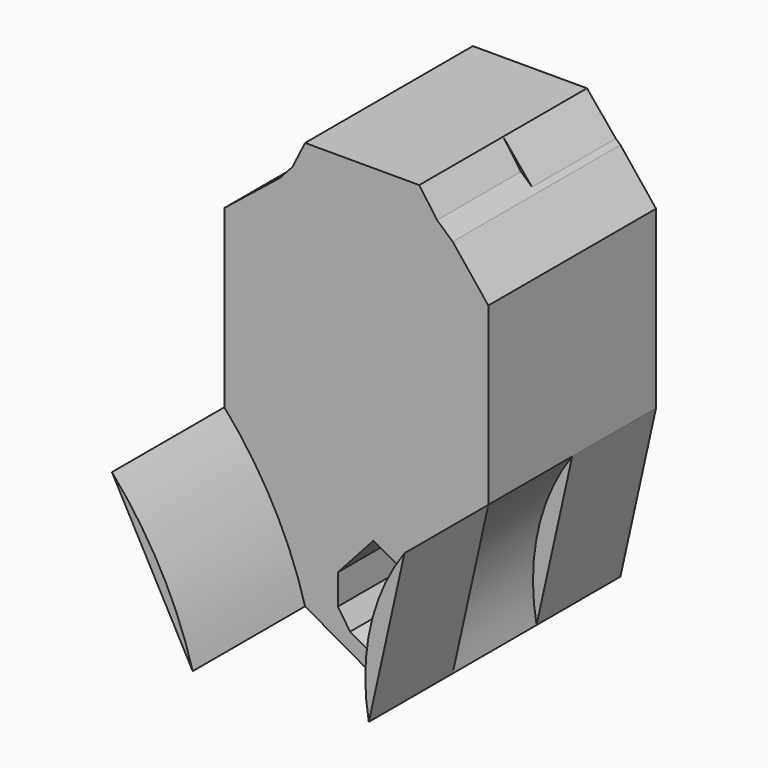
from build123d import *

# Parameters (mm, degrees)
F1_DEPTH  = 25.4
F2_DEPTH  = 25.4
F5_DEPTH  = 51.054
F6_DEPTH  = 25.4
F8_DEPTH  = 25.146
F9_DEPTH  = 8.89
F11_DEPTH = 25.4
F12_DEPTH = 81.788


with BuildPart() as f1:
    # F0 (on Front) → F1 (new body)
    with BuildSketch(Plane.XZ):
        Polygon((-38.0650572479, 57.6888509095), (-51.5612922609, 46.8918569386), (-51.5612922609, 24.2856629193), (-51.5612922609, 4.3787150644), (-31.9917500019, -31.7237153649), (-9.3855569139, -44.5451401174), (3.7732720375, -34.4229638577), (12.4108719826, 4.3787150644), (12.4108719826, 24.2856629193), (12.4108719826, 46.8918569386), (3.7732720375, 57.6888509095), (0, 61.0629059374), (-4.3244678527, 67.1362131834), (-31.9917500019, 67.1362131834), (-35.0284054875, 61.0629059374), align=None)
    extrude(amount=F1_DEPTH)

    # F2 (add): a face of the model
    f2_faces = [f1.faces().sort_by_distance(p)[0] for p in [
        (-18.1670820448, 0, 15.6166909792),
    ]]
    extrude(f2_faces, amount=F2_DEPTH)

    # F4 (on face) → F5 (cut)
    with BuildSketch(Plane.XZ.offset(25.4)):
        with BuildLine():
            ThreePointArc((12.4108719826, 4.3787150644), (4.1185646874, -14.1375862121), (3.7732720375, -34.4229638577))
            Line((3.7732720375, -34.4229638577), (12.4108719826, 4.3787150644))
        make_face()
    extrude(amount=-F5_DEPTH, mode=Mode.SUBTRACT)

    # F4 (on face) + F3 (on face) → F6 (join)
    with BuildSketch(Plane.XZ.offset(25.4)):
        with BuildLine():
            Line((3.7732720375, -34.4229638577), (12.4108719826, 4.3787150644))
            ThreePointArc((12.4108719826, 4.3787150644), (4.1185646874, -14.1375862121), (3.7732720375, -34.4229638577))
        make_face()
    with BuildSketch(Plane(origin=(0, 25.4, 0), x_dir=(-1, 0, 0), z_dir=(0, 1, 0))):
        Polygon((18.1581089273, 67.1362131834), (4.3244678527, 67.1362131834), (-12.4108719826, 46.8918569386), (-12.4108719826, 4.3787150644), (-3.7732720375, -34.4229638577), (9.3855569139, -44.5451401174), (31.9917500019, -31.7237153649), (51.5612922609, 4.3787150644), (51.5612922609, 46.8918569386), (50.0958084087, 48.1103495756), (36.5467313677, 59.3758784235), (31.9917500019, 67.1362131834), align=None)
    extrude(amount=F6_DEPTH, dir=(0, -1, 0))

    # F7 (on face) → F8 (join)
    with BuildSketch(Plane.XZ.offset(25.4)):
        with BuildLine():
            Line((-51.5612922609, 4.3787150644), (-31.9917500019, -31.7237153649))
            ThreePointArc((-31.9917500019, -31.7237153649), (-39.7394624087, -12.568300065), (-51.5612922609, 4.3787150644))
        make_face()
    extrude(amount=F8_DEPTH)

    # F9 (add): a face of the model
    f9_faces = [f1.faces().sort_by_distance(p)[0] for p in [
        (-40.9608129672, -50.546, -13.2303405726),
    ]]
    extrude(f9_faces, amount=F9_DEPTH)

    # F10 (on face) → F11 (join)
    with BuildSketch(Plane.XZ.offset(25.4)):
        Polygon((-15.4559531359, -12.3257856039), (-24.0448707213, -21.8765659441), (-24.0448707213, -29.190047577), (-21.0833395748, -33.5754018863), (-17.0532407374, -35.8441268439), (-10.7082539019, -37.7830361114), (-8.6549719673, -38.4104806555), (-6.0115899485, -33.5754018863), (-3.3401730916, -23.3702346121), (-8.6549719673, -16.1149992003), align=None)
        with BuildLine():
            ThreePointArc((-7.757912569, -35.5995865712), (-8.682855395, -37.4347954064), (-10.7082539019, -37.7830361114))
            ThreePointArc((-10.7082539019, -37.7830361114), (-11.3992094948, -33.7643777359), (-7.757912569, -35.5995865712))
        make_face(mode=Mode.SUBTRACT)
        with BuildLine():
            ThreePointArc((-7.757912569, -35.5995865712), (-11.3992094948, -33.7643777359), (-10.7082539019, -37.7830361114))
            ThreePointArc((-10.7082539019, -37.7830361114), (-8.682855395, -37.4347954064), (-7.757912569, -35.5995865712))
        make_face()
    extrude(amount=F11_DEPTH)

    # F12 (cut): a face of the model
    f12_faces = [f1.faces().sort_by_distance(p)[0] for p in [
        (-13.8577051809, -50.8, -25.7582591051),
    ]]
    extrude(f12_faces, amount=-F12_DEPTH, mode=Mode.SUBTRACT)


solid = f1.part
